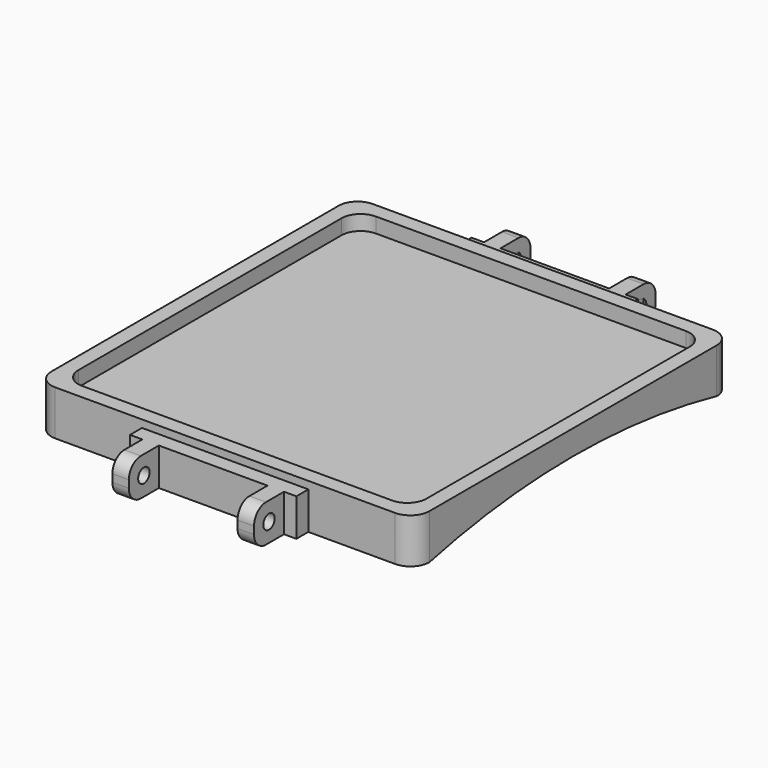
from build123d import *

# Parameters (mm, degrees)
SKETCH_W        = 22.2
SKETCH_H        = 2
PAD_DEPTH       = 5
SKETCH001_W     = 2.2
SKETCH001_H     = 5
PAD001_DEPTH    = 5
FILLET_R        = 2
SKETCH002_R     = 0.95
POCKET_DEPTH    = 68.167804
PAD002_DEPTH    = 6
POCKET001_DEPTH = 2
SKETCH006_W     = 22.2
SKETCH006_H     = 5
PAD003_DEPTH    = 2
SKETCH007_W     = 2.2
SKETCH007_H     = 5
PAD004_DEPTH    = 5
SKETCH008_R     = 0.95
POCKET002_DEPTH = 191.901985
FILLET001_R     = 2
POCKET003_DEPTH = 75.226


with BuildPart() as connector:
    # Sketch → Pad (new body)
    with BuildSketch(Plane.XY):
        Rectangle(SKETCH_W, SKETCH_H)
    extrude(amount=PAD_DEPTH)

    # Sketch001 (on Face1 of Pad) → Pad001 (join)
    with BuildSketch(Plane(origin=(0, 1, 0), x_dir=(-1, 0, 0), z_dir=(0, 1, 0))):
        with Locations((-8.35, 2.5)):
            Rectangle(SKETCH001_W, SKETCH001_H)
        with Locations((8.35, 2.5)):
            Rectangle(SKETCH001_W, SKETCH001_H)
    extrude(amount=PAD001_DEPTH)

    # Fillet
    fillet_edges = [connector.edges().sort_by_distance(p)[0] for p in [
        (8.35, 6, 5),
        (-8.35, 6, 5),
        (-8.35, 6, 0),
        (8.35, 6, 0),
    ]]
    fillet(fillet_edges, radius=FILLET_R)

    # Sketch002 (on Face20 of Fillet) → Pocket (cut, through all)
    with BuildSketch(Plane.YZ.offset(9.45)):
        with Locations((3.5, 2.5)):
            Circle(SKETCH002_R)
    pocket = extrude(amount=-POCKET_DEPTH, mode=Mode.SUBTRACT)

    # Mirrored: Pocket across Sketch002 H_Axis
    add(pocket.mirror(Plane(origin=(9.45, 0, 0), x_dir=(1, 0, 0), z_dir=(0, 0, 1))), mode=Mode.SUBTRACT)


with BuildPart() as connector_1:
    # Body placement: moved
    add(connector.part.moved(Location((0, 25.495, 0))))


with BuildPart() as main:
    # Sketch004 → Pad002 (new body)
    with BuildSketch(Plane.XY):
        with BuildLine():
            Line((-22.685, 26.495), (22.685, 26.495))
            ThreePointArc((25.225, 23.955), (24.481051, 25.751051), (22.685, 26.495))
            Line((25.225, 23.955), (25.225, -23.955))
            ThreePointArc((22.685, -26.495), (24.481051, -25.751051), (25.225, -23.955))
            Line((22.685, -26.495), (-22.685, -26.495))
            ThreePointArc((-25.225, -23.955), (-24.481051, -25.751051), (-22.685, -26.495))
            Line((-25.225, -23.955), (-25.225, 23.955))
            ThreePointArc((-22.685, 26.495), (-24.481051, 25.751051), (-25.225, 23.955))
        make_face()
    extrude(amount=PAD002_DEPTH)

    # Sketch005 → Pocket001 (cut)
    with BuildSketch(Plane.XY.offset(6)):
        with BuildLine():
            Line((-20.685, 24.495), (20.685, 24.495))
            ThreePointArc((23.225, 21.955), (22.481051, 23.751051), (20.685, 24.495))
            Line((23.225, 21.955), (23.225, -21.955))
            ThreePointArc((20.685, -24.495), (22.481051, -23.751051), (23.225, -21.955))
            Line((20.685, -24.495), (-20.685, -24.495))
            ThreePointArc((-23.225, -21.955), (-22.481051, -23.751051), (-20.685, -24.495))
            Line((-23.225, -21.955), (-23.225, 21.955))
            ThreePointArc((-20.685, 24.495), (-22.481051, 23.751051), (-23.225, 21.955))
        make_face()
    extrude(amount=-POCKET001_DEPTH, mode=Mode.SUBTRACT)

    # Sketch006 (on Face7 of Pocket001) → Pad003 (join)
    with BuildSketch(Plane(origin=(0, 26.495, 0), x_dir=(-1, 0, 0), z_dir=(0, 1, 0))):
        with Locations((0, 2.5)):
            Rectangle(SKETCH006_W, SKETCH006_H)
    pad003 = extrude(amount=PAD003_DEPTH)

    # Sketch007 (on Face23 of Pad003) → Pad004 (join)
    with BuildSketch(Plane(origin=(0, 28.495, 0), x_dir=(-1, 0, 0), z_dir=(0, 1, 0))):
        with Locations((-8.35, 2.5)):
            Rectangle(SKETCH007_W, SKETCH007_H)
        with Locations((8.35, 2.5)):
            Rectangle(SKETCH007_W, SKETCH007_H)
    pad004 = extrude(amount=PAD004_DEPTH)

    # Sketch008 (on Face35 of Pad004) → Pocket002 (cut, through all)
    with BuildSketch(Plane.YZ.offset(9.45)):
        with Locations((30.995, 2.5)):
            Circle(SKETCH008_R)
    pocket002 = extrude(amount=-POCKET002_DEPTH, mode=Mode.SUBTRACT)

    # Mirrored001: Pad003, Pad004, Pocket002 across Sketch008 V_Axis
    add(pad003.mirror(Plane(origin=(9.45, 0, 0), x_dir=(1, 0, 0), z_dir=(0, 1, 0))))
    add(pad004.mirror(Plane(origin=(9.45, 0, 0), x_dir=(1, 0, 0), z_dir=(0, 1, 0))))
    add(pocket002.mirror(Plane(origin=(9.45, 0, 0), x_dir=(1, 0, 0), z_dir=(0, 1, 0))), mode=Mode.SUBTRACT)

    # Fillet001
    fillet001_edges = [main.edges().sort_by_distance(p)[0] for p in [
        (-8.35, -33.495, 5),
        (8.35, -33.495, 5),
        (8.35, -33.495, 0),
        (-8.35, -33.495, 0),
        (8.35, 33.495, 0),
        (-8.35, 33.495, 0),
        (-8.35, 33.495, 5),
        (8.35, 33.495, 5),
    ]]
    fillet(fillet001_edges, radius=FILLET001_R)

    # Sketch009 → Pocket003 (cut, through all)
    with BuildSketch(Plane.YZ.offset(50)):
        with BuildLine():
            ThreePointArc((24.103642, 0), (0.075286, 2.714316), (-23.953071, 0))
            Line((-23.953071, 0), (24.103642, 0))
        make_face()
    extrude(amount=-POCKET003_DEPTH, mode=Mode.SUBTRACT)


solid = Compound([connector_1.part, main.part])
